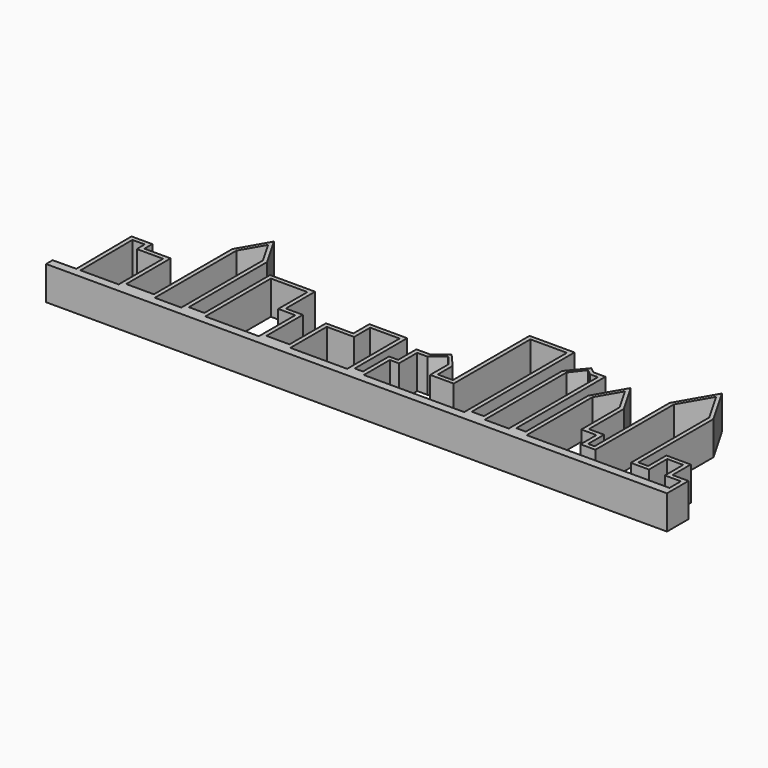
from build123d import *

# Parameters (mm, degrees)
F1_DEPTH = 8


with BuildPart() as f1:
    # F0 (on Top) → F1 (new body)
    with BuildSketch(Plane.XY):
        Polygon((-8.791217, 10.820824), (-8.791217, 15.58735), (-1.791217, 15.58735), (-1.791217, 0), (0, 0), (2.168675, 0), (2.168675, 7.725904), (4.33735, 7.725904), (4.33735, 13.147592), (6.77711, 13.147592), (9.759036, 15.58735), (11.755203, 13.147592), (11.755203, 7.725904), (17.3494, 7.725904), (17.3494, 30.496988), (26.024099, 30.496988), (26.024099, 7.725904), (26.024099, 0), (30.903617, 0), (30.903617, 19.495524), (30.903617, 24.262048), (33.421363, 27.499158), (34.764209, 26.454724), (36.612159, 26.454724), (36.612159, 24.262048), (36.612159, 0), (40.858796, 0), (40.858796, 19.495524), (44.108796, 25.124689), (47.358796, 19.495524), (47.358796, 8.10998), (50.963856, 8.10998), (50.963856, 3.388554), (54.483884, 3.388554), (54.483884, 26.713658), (58.685689, 33.991398), (62.887494, 26.713658), (62.887494, 3.388554), (67.212614, 3.388554), (67.212614, 8.810241), (71.00779, 8.810241), (71.00779, 3.388554), (74.802975, 3.388554), (74.802975, 0), (75.802975, 0), (75.802975, 4.388554), (74.802975, 4.388554), (72.00779, 4.388554), (72.00779, 9.810241), (68.572836, 9.810241), (66.212614, 9.810241), (66.212614, 6.689354), (66.212614, 4.388554), (64.699309, 4.388554), (63.875258, 4.388554), (63.887494, 26.713658), (58.694566, 35.708074), (53.483884, 26.682909), (53.483884, 4.388554), (51.963856, 4.388554), (51.963856, 9.10998), (48.358796, 9.10998), (48.358796, 19.495524), (44.108796, 26.85674), (39.858796, 19.495524), (39.858796, 1), (37.612159, 1), (37.612159, 27.454724), (34.764209, 27.454724), (34.232993, 27.867891), (33.421363, 28.499158), (29.903617, 24.262048), (29.903617, 1), (27.024099, 1), (27.024099, 31.496988), (16.3494, 31.496988), (16.3494, 8.725904), (12.755203, 8.725904), (12.755203, 13.147592), (9.759036, 16.58735), (6.77711, 14.147592), (4.33735, 14.147592), (3.33735, 14.147592), (3.33735, 8.725904), (1.168675, 8.725904), (1.168675, 1), (-0.791217, 1), (-0.791217, 16.58735), (-9.791217, 16.58735), (-9.791217, 11.820824), (-16.291217, 11.820824), (-16.291217, 1), (-21.771085, 1), (-21.771085, 11.820824), (-25.821578, 11.820824), (-25.821578, 20.495524), (-30.47494, 20.495524), (-36.512049, 20.495524), (-36.512049, 1), (-40.204821, 1), (-40.204821, 24.262048), (-44.357452, 31.454616), (-48.510083, 24.262048), (-48.510083, 1), (-55.096389, 1), (-55.096389, 14.208821), (-61.347563, 14.208821), (-61.347563, 16.556969), (-66.283464, 16.556969), (-66.144578, 0), (-65.144543, 0), (-65.275041, 15.556969), (-62.351945, 15.581489), (-62.347563, 15.059114), (-62.347563, 13.208821), (-56.096389, 13.208821), (-56.096389, 0), (-51.847431, 0), (-47.510083, 0), (-47.510083, 24.262048), (-44.357452, 29.722565), (-41.204821, 24.262048), (-41.204821, 0), (-35.512049, 0), (-35.512049, 19.495524), (-26.821578, 19.495524), (-26.821578, 10.820824), (-22.771085, 10.820824), (-22.771085, 0), (-17.891567, 0), (-15.291217, 0), (-15.291217, 1), (-15.291217, 10.820824), align=None)
        Polygon((0, 0), (-1.791217, 0), (-15.291217, 0), (-17.891567, 0), (-22.771085, 0), (-35.512049, 0), (-41.204821, 0), (-47.510083, 0), (-51.847431, 0), (-56.096389, 0), (-65.144543, 0), (-66.144578, 0), (-71.747227, -0.046997), (-71.730845, -2), (74.802975, -2), (75.802975, -2), (75.802975, 0), (74.802975, 0), (40.858796, 0), (36.612159, 0), (30.903617, 0), (26.024099, 0), (2.168675, 0), align=None)
    extrude(amount=F1_DEPTH)


solid = f1.part
